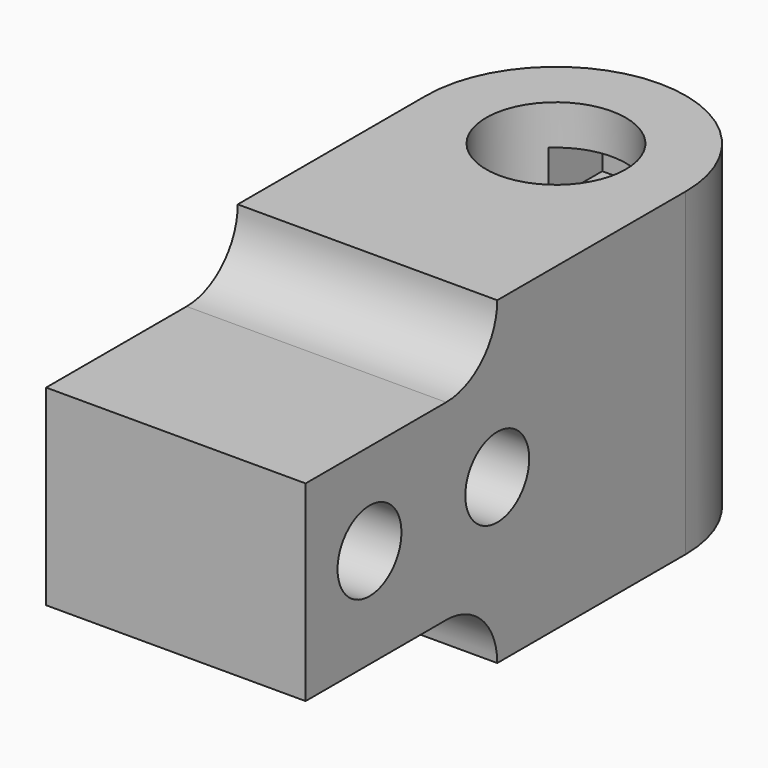
from build123d import *

# Parameters (mm, degrees)
F0_W     = 32.5
F0_H     = 30
F1_DEPTH = 40
F2_R     = 5
F3_DEPTH = 32.5
F4_R     = 8.75
F5_DEPTH = 40
F6_W     = 29.5
F6_H     = 6
F7_DEPTH = 6


with BuildPart() as f1:
    # F0 (on Top) → F1 (new body)
    with BuildSketch(Plane.XY):
        with BuildLine():
            Line((16.25, -29.5), (16.25, 0))
            ThreePointArc((16.25, 0), (0, 16.25), (-16.25, 0))
            Line((-16.25, 0), (-16.25, -29.5))
            Line((-16.25, -29.5), (16.25, -29.5))
        make_face()
        with Locations((0, -44.5)):
            Rectangle(F0_W, F0_H)
    extrude(amount=F1_DEPTH)

    # F2 (on face) → F3 (cut)
    with BuildSketch(Plane(origin=(-16.25, 0, 0), x_dir=(0, -1, 0), z_dir=(-1, 0, 0))):
        with BuildLine():
            Line((37.5, 32), (59.5, 32))
            Line((59.5, 32), (59.5, 40))
            Line((59.5, 40), (29.5, 40))
            ThreePointArc((29.5, 40), (31.843146, 34.343146), (37.5, 32))
        make_face()
        with BuildLine():
            Line((29.5, 0), (59.5, 0))
            Line((59.5, 0), (59.5, 8))
            Line((59.5, 8), (37.5, 8))
            ThreePointArc((37.5, 8), (31.843146, 5.656854), (29.5, 0))
        make_face()
        with Locations((29.5, 20.5)):
            Circle(F2_R)
        with Locations((49.5, 20.5)):
            Circle(F2_R)
    extrude(amount=-F3_DEPTH, mode=Mode.SUBTRACT)

    # F4 (on face) → F5 (cut)
    with BuildSketch(Plane.XY.offset(40)):
        Circle(F4_R)
    extrude(amount=-F5_DEPTH, mode=Mode.SUBTRACT)

    # F6 (on Right) → F7 (cut, symmetric)
    with BuildSketch(Plane.YZ):
        Polygon((-14.75, 29), (14.75, 29), (14.75, 35), (0, 35), (-14.75, 35), align=None)
        with Locations((0, 8)):
            Rectangle(F6_W, F6_H)
    extrude(amount=F7_DEPTH, both=True, mode=Mode.SUBTRACT)


solid = f1.part
